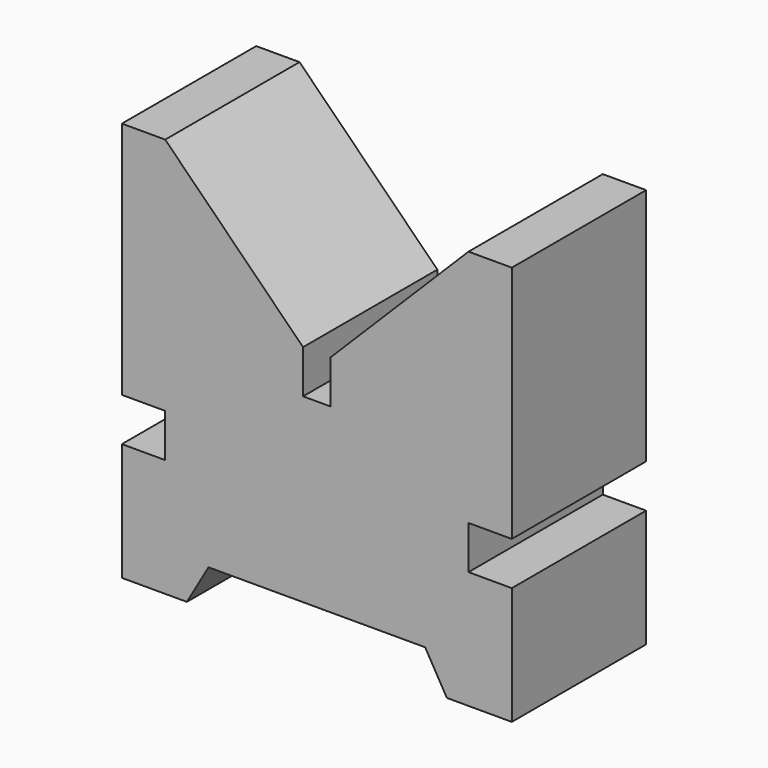
from build123d import *

# Parameters (mm, degrees)
F1_DEPTH = 15.5


with BuildPart() as f1:
    # F0 (on Front) → F1 (new body)
    with BuildSketch(Plane.XZ):
        Polygon((2.544156, 0), (1.272078, 0), (0, 0), (0, 4), (-12.727922, 16.727922), (-16.727922, 16.727922), (-16.727922, -5.321511), (-12.727922, -5.321511), (-12.727922, -9.321511), (-16.727922, -9.321511), (-16.727922, -20.19446), (-10.727922, -20.19446), (-8.727922, -16.730359), (1.272078, -16.730359), (11.272078, -16.730359), (13.272078, -20.19446), (19.272078, -20.19446), (19.272078, -9.321511), (15.272078, -9.321511), (15.272078, -5.321511), (19.272078, -5.321511), (19.272078, 16.727922), (15.272078, 16.727922), (2.544156, 4), align=None)
    extrude(amount=F1_DEPTH)


solid = f1.part
